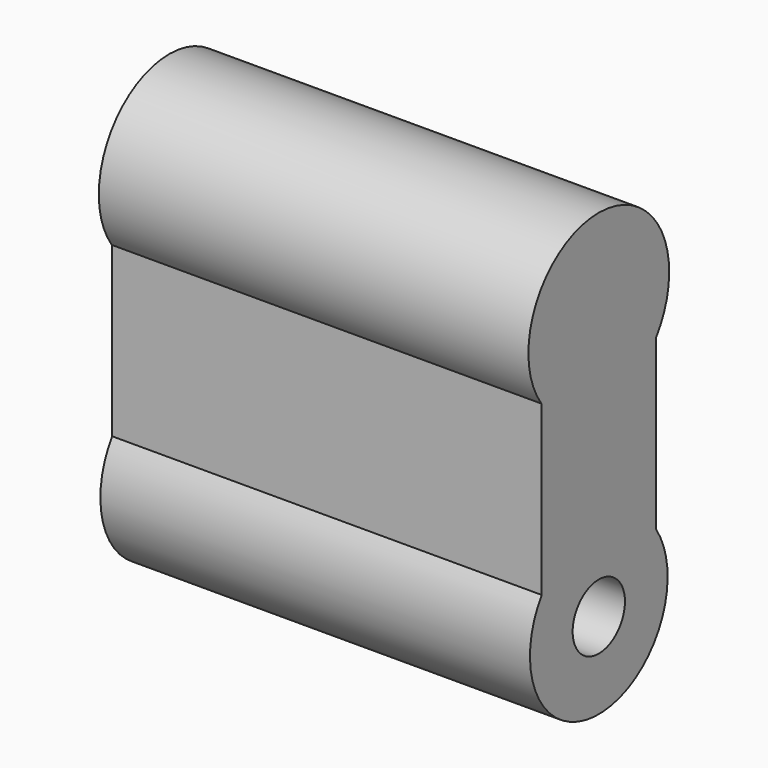
from build123d import *

# Parameters (mm, degrees)
F0_R      = 15.2590123091
F1_DEPTH  = 38.1
F2_R      = 15.2230009986
F3_DEPTH  = 38.1
F4_DEPTH  = 38.1
F5_R      = 5.7970775931
F6_DEPTH  = 50.8
F7_DEPTH  = 101.6
F10_DEPTH = 38.1
F11_DEPTH = 38.1
F12_R     = 15.6063789954
F13_DEPTH = 38.1
F14_DEPTH = 38.1
F15_DEPTH = 38.1


with BuildPart() as f1:
    # F0 (on Right) → F1 (new body)
    with BuildSketch(Plane.YZ):
        Circle(F0_R)
    extrude(amount=F1_DEPTH)

    # F2 (on Right) → F3 (join)
    with BuildSketch(Plane.YZ):
        Circle(F2_R)
    extrude(amount=F3_DEPTH)

    # F2 (on Right) → F4 (join)
    with BuildSketch(Plane.YZ):
        Circle(F2_R)
    extrude(amount=-F4_DEPTH)

    # F5 (on Right) → F6 (join)
    with BuildSketch(Plane.YZ):
        Circle(F5_R)
    extrude(amount=-F6_DEPTH)

    # F7 (cut): a face of the model
    f7_faces = [f1.faces().sort_by_distance(p)[0] for p in [
        (-50.8, 0, 0),
    ]]
    extrude(f7_faces, amount=-F7_DEPTH, mode=Mode.SUBTRACT)

    # F9 (on Right) → F10 (join)
    with BuildSketch(Plane.YZ):
        Polygon((-12.7270547673, 38.6252403259), (-12.6615641639, 8.5206106305), (12.6757137477, 8.5206106305), (12.6757137477, 38.6252403259), align=None)
    extrude(amount=F10_DEPTH)

    # F11 (add): a face of the model
    f11_faces = [f1.faces().sort_by_distance(p)[0] for p in [
        (0, -0.0109795031, 25.7338348124),
    ]]
    extrude(f11_faces, amount=F11_DEPTH)

    # F12 (on Right) → F13 (join)
    with BuildSketch(Plane.YZ):
        with Locations((0, 47.4579036236)):
            Circle(F12_R)
    extrude(amount=F13_DEPTH)

    # F14 (add): a face of the model
    f14_faces = [f1.faces().sort_by_distance(p)[0] for p in [
        (0, 0.0002381193, 49.6663951718),
    ]]
    extrude(f14_faces, amount=-F14_DEPTH)

    # F15 (add): a face of the model
    f15_faces = [f1.faces().sort_by_distance(p)[0] for p in [
        (0, 0.0002381193, 49.6663951718),
    ]]
    extrude(f15_faces, amount=F15_DEPTH)


solid = f1.part
